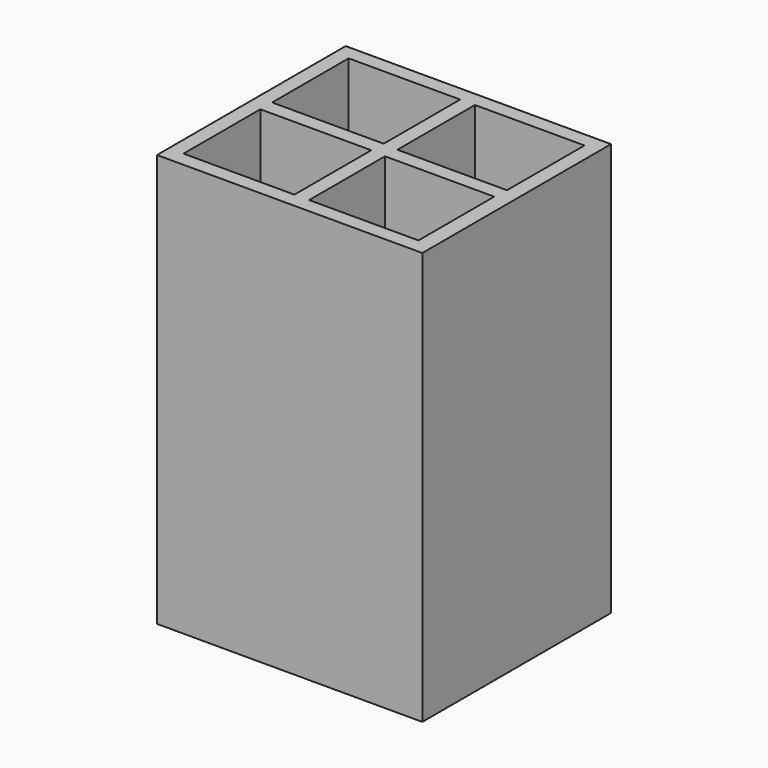
from build123d import *

# Parameters (mm, degrees)
F0_W     = 57.15
F0_H     = 50.8
F1_DEPTH = 88.9
F2_W     = 24.023754
F2_H     = 20.589164
F3_DEPTH = 85.725
F2_W_2   = 23.884728
F2_H_2   = 20.685836
F4_DEPTH = 85.725
F2_W_3   = 23.601246
F2_H_3   = 20.868859
F5_DEPTH = 85.725
F2_W_4   = 23.534088
F2_H_4   = 20.412843
F6_DEPTH = 85.725


with BuildPart() as f1:
    # F0 (on Top) → F1 (new body)
    with BuildSketch(Plane.XY):
        Rectangle(F0_W, F0_H)
    extrude(amount=F1_DEPTH)

    # F2 (on face) → F3 (cut)
    with BuildSketch(Plane.XY.offset(88.9)):
        with Locations((-13.388123, 11.930418)):
            Rectangle(F2_W, F2_H)
    extrude(amount=-F3_DEPTH, mode=Mode.SUBTRACT)

    # F2 (on face) → F4 (cut)
    with BuildSketch(Plane.XY.offset(88.9)):
        with Locations((-13.457636, -11.882082)):
            Rectangle(F2_W_2, F2_H_2)
    extrude(amount=-F4_DEPTH, mode=Mode.SUBTRACT)

    # F2 (on face) → F5 (cut)
    with BuildSketch(Plane.XY.offset(88.9)):
        with Locations((13.599377, 11.79057)):
            Rectangle(F2_W_3, F2_H_3)
    extrude(amount=-F5_DEPTH, mode=Mode.SUBTRACT)

    # F2 (on face) → F6 (cut)
    with BuildSketch(Plane.XY.offset(88.9)):
        with Locations((13.426772, -12.018578)):
            Rectangle(F2_W_4, F2_H_4)
    extrude(amount=-F6_DEPTH, mode=Mode.SUBTRACT)


solid = f1.part
